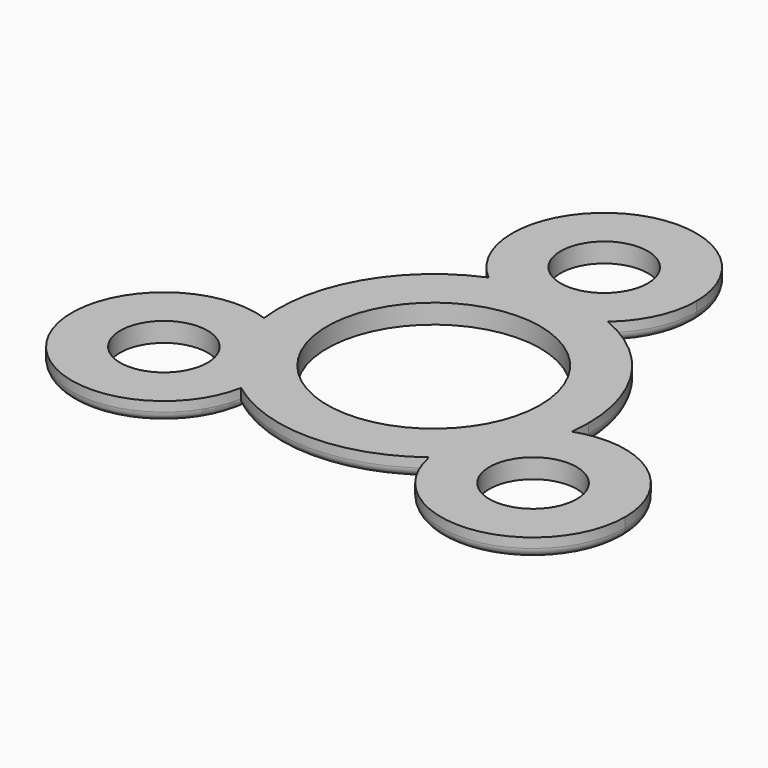
from build123d import *

# Parameters (mm, degrees)
F0_R     = 4.500000108
F0_R_2   = 11
F1_DEPTH = 2
F2_R     = 1


with BuildPart() as f1:
    # F0 (on Top) → F1 (new body)
    with BuildSketch(Plane.XY):
        with BuildLine():
            ThreePointArc((6.1590883621, 14.7670455174), (8.624422863, 18.0163672007), (9.5, 22))
            ThreePointArc((9.5, 22), (-3.9836327993, 30.624422863), (-6.1590883621, 14.7670455174))
            ThreePointArc((-6.1590883621, 14.7670455174), (0, 16.0000000864), (6.1590883621, 14.7670455174))
        make_face()
        with Locations((0, 22)):
            Circle(F0_R, mode=Mode.SUBTRACT)
        with BuildLine():
            ThreePointArc((6.1590883621, 14.7670455174), (0, 16.0000000864), (-6.1590883621, 14.7670455174))
            ThreePointArc((-6.1590883621, 14.7670455174), (0, 12.5), (6.1590883621, 14.7670455174))
        make_face()
        with BuildLine():
            ThreePointArc((6.1590883621, 14.7670455174), (0, 12.5), (-6.1590883621, 14.7670455174))
            ThreePointArc((-6.1590883621, 14.7670455174), (-13.8564065354, 8.0000000432), (-15.868180738, -2.0495957729))
            ThreePointArc((-15.868180738, -2.0495957729), (-11.2904202482, -5.5228471073), (-9.5525588833, -11))
            ThreePointArc((-9.5525588833, -11), (-9.5917731912, -11.8622842279), (-9.7090923758, -12.7174497444))
            ThreePointArc((-9.7090923758, -12.7174497444), (0, -16.0000000864), (9.7090923758, -12.7174497444))
            ThreePointArc((9.7090923758, -12.7174497444), (10.8253175473, -6.25), (15.868180738, -2.0495957729))
            ThreePointArc((15.868180738, -2.0495957729), (15.967011241, -1.0269151831), (16.0000000864, 0))
            ThreePointArc((16.0000000864, 0), (13.3143797657, 8.8728402566), (6.1590883621, 14.7670455174))
        make_face()
        Circle(F0_R_2, mode=Mode.SUBTRACT)
        with BuildLine():
            ThreePointArc((-9.7090923758, -12.7174497444), (-13.8564065354, -8.0000000432), (-15.868180738, -2.0495957729))
            ThreePointArc((-15.868180738, -2.0495957729), (-27.2798002192, -15.75), (-9.7090923758, -12.7174497444))
        make_face()
        with Locations((-19.0525588833, -11)):
            Circle(F0_R, mode=Mode.SUBTRACT)
        with BuildLine():
            ThreePointArc((-9.5525588833, -11), (-11.2904202482, -5.5228471073), (-15.868180738, -2.0495957729))
            ThreePointArc((-15.868180738, -2.0495957729), (-13.8564065354, -8.0000000432), (-9.7090923758, -12.7174497444))
            ThreePointArc((-9.7090923758, -12.7174497444), (-9.5917731912, -11.8622842279), (-9.5525588833, -11))
        make_face()
        with BuildLine():
            ThreePointArc((9.7090923758, -12.7174497444), (13.8564065354, -8.0000000432), (15.868180738, -2.0495957729))
            ThreePointArc((15.868180738, -2.0495957729), (10.8253175473, -6.25), (9.7090923758, -12.7174497444))
        make_face()
        with BuildLine():
            ThreePointArc((28.5525588833, -11), (24.5297117759, -3.2378613649), (15.868180738, -2.0495957729))
            ThreePointArc((15.868180738, -2.0495957729), (13.8564065354, -8.0000000432), (9.7090923758, -12.7174497444))
            ThreePointArc((9.7090923758, -12.7174497444), (19.9148431112, -20.460785692), (28.5525588833, -11))
        make_face()
        with Locations((19.0525588833, -11)):
            Circle(F0_R, mode=Mode.SUBTRACT)
    extrude(amount=F1_DEPTH)

    # F2
    f2_edges = [f1.edges().sort_by_distance(p)[0] for p in [
        (-27.2798, -15.75, 0),
        (0, -16, 0),
        (27.2798, -15.75, 0),
        (13.856407, 8, 0),
        (0, 31.5, 0),
        (-13.856407, 8, 0),
    ]]
    fillet(f2_edges, radius=F2_R)


with BuildPart() as f3_1:
    # F3: copy of F1
    add(f1.part.moved(Location((0, 0, 10))))


solid = f1.part
